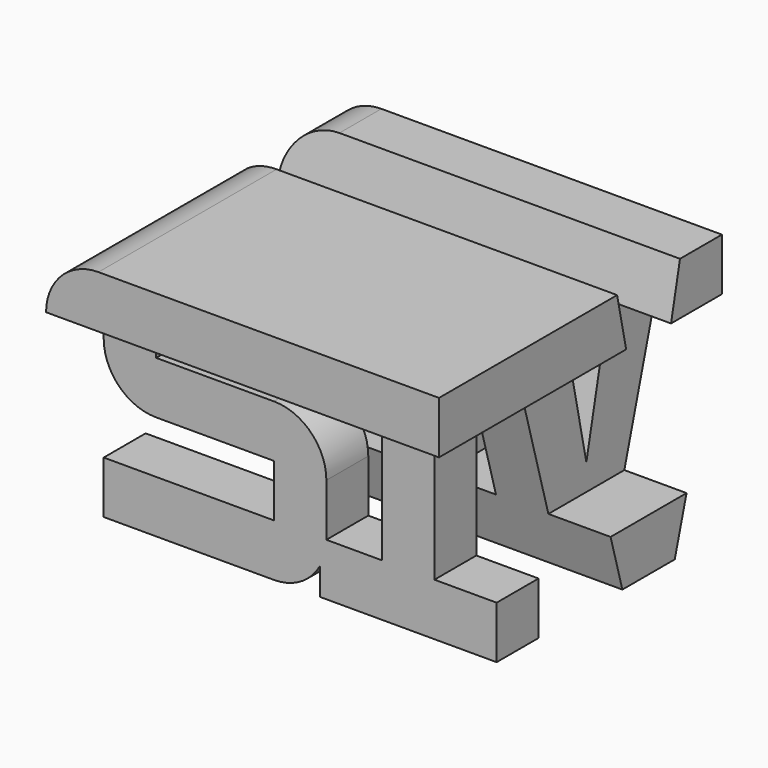
from build123d import *

# Parameters (mm, degrees)
F1_DEPTH = 68.58
F3_DEPTH = 76.201


with BuildPart() as f1:
    # F0 (on Front) → F1 (new body)
    with BuildSketch(Plane.XZ):
        with BuildLine():
            Line((-34.29, 0), (0, 0))
            Line((0, 0), (0, 10.16))
            Line((0, 10.16), (-12.065, 10.16))
            Line((-12.065, 10.16), (-12.065, 40.64))
            Line((-12.065, 40.64), (0, 40.64))
            Line((0, 40.64), (0, 50.8))
            Line((0, 50.8), (-66.04, 50.8))
            ThreePointArc((-66.04, 50.8), (-73.224205, 47.824205), (-76.2, 40.64))
            Line((-76.2, 40.64), (-76.2, 30.48))
            ThreePointArc((-76.2, 30.48), (-73.224205, 23.295795), (-66.04, 20.32))
            Line((-66.04, 20.32), (-43.18, 20.32))
            Line((-43.18, 20.32), (-43.18, 10.16))
            Line((-43.18, 10.16), (-76.2, 10.16))
            Line((-76.2, 10.16), (-76.2, 0))
            Line((-76.2, 0), (-43.18, 0))
            ThreePointArc((-43.18, 0), (-38.019975, 1.407872), (-34.29, 5.241311))
            Line((-34.29, 5.241311), (-34.29, 0))
        make_face()
        with BuildLine():
            Line((-22.225, 10.16), (-33.02, 10.16))
            Line((-33.02, 10.16), (-33.02, 20.32))
            ThreePointArc((-33.02, 20.32), (-35.995795, 27.504205), (-43.18, 30.48))
            Line((-43.18, 30.48), (-66.04, 30.48))
            Line((-66.04, 30.48), (-66.04, 40.64))
            Line((-66.04, 40.64), (-22.225, 40.64))
            Line((-22.225, 40.64), (-22.225, 10.16))
        make_face(mode=Mode.SUBTRACT)
    extrude(amount=F1_DEPTH)

    # F2 (on Right) → F3 (intersect, through all)
    with BuildSketch(Plane.YZ):
        Polygon((-11.43, 0), (0, 40.64), (0, 50.8), (-10.16, 50.8), (-17.78, 15.24), (-25.4, 50.8), (-35.56, 50.8), (-68.58, 50.8), (-68.58, 40.64), (-54.61, 40.64), (-54.61, 0), (-44.45, 0), (-44.45, 40.64), (-35.56, 40.64), (-24.13, 0), align=None)
    extrude(amount=-F3_DEPTH, mode=Mode.INTERSECT)


solid = f1.part
